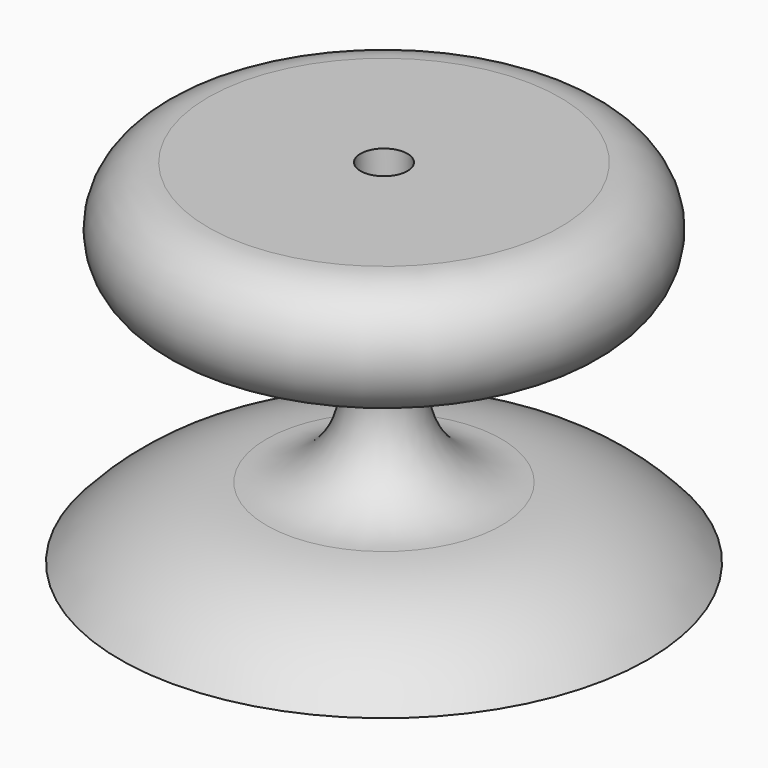
from build123d import *

# Parameters (mm, degrees)
F3_D           = 5
F3_CBORE_D     = 8
F3_CBORE_DEPTH = 5


with BuildPart() as f1:
    # F0 (on Front) → F1 (revolve)
    with BuildSketch(Plane.XZ):
        with BuildLine():
            ThreePointArc((25, 40), (39, 26), (25, 12))
            ThreePointArc((25, 12), (11.260843, 8.581576), (0, 0))
            Line((0, 0), (45, 0))
            Line((45, 0), (45, 60))
            Line((45, 60), (15, 60))
            ThreePointArc((15, 60), (5, 50), (15, 40))
            Line((15, 40), (25, 40))
        make_face()
    revolve(axis=Axis((45, 0, 49.649602), (0, 0, -1)))

    # F3 (through all)
    with Locations(Plane.XY.offset(60)):
        with Locations((45, 0)):
            CounterBoreHole(F3_D / 2, F3_CBORE_D / 2, F3_CBORE_DEPTH)


solid = f1.part
